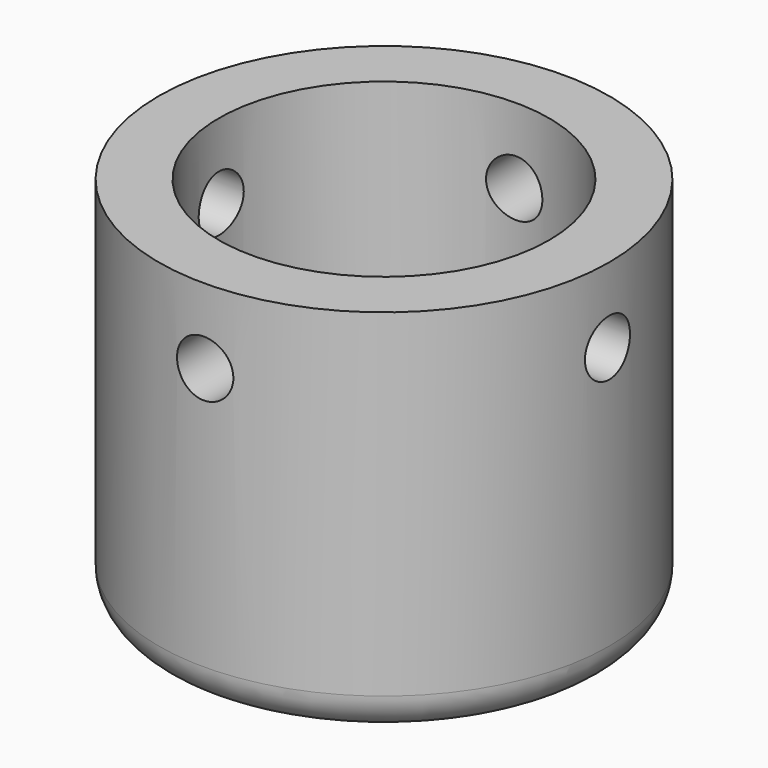
from build123d import *

# Parameters (mm, degrees)
F0_R          = 30.48
F1_DEPTH      = 50.8
F2_R          = 3.81
F3_DEPTH      = 50.801
F4_R          = 3.81
F5_DEPTH      = 30.481
F5_DEPTH_BACK = 30.481
F6_R          = 3.81
F7_DEPTH      = 30.4810001
F7_DEPTH_BACK = 30.4810001
F8_R          = 3.302
F9_DEPTH      = 50.8010001
F10_R         = 22.352
F11_DEPTH     = 47.625
F12_R         = 5.08


with BuildPart() as f1:
    # F0 (on Top) → F1 (new body)
    with BuildSketch(Plane.XY):
        Circle(F0_R)
    extrude(amount=-F1_DEPTH)

    # F2 (on face) → F3 (cut, through all)
    with BuildSketch(Plane(origin=(0, 0, -50.8), x_dir=(1, 0, 0), z_dir=(0, 0, -1))):
        Circle(F2_R)
    extrude(amount=-F3_DEPTH, mode=Mode.SUBTRACT)

    # F4 (on Right) → F5 (cut, two sides)
    with BuildSketch(Plane.YZ) as f5_sk:
        with Locations((0, -10.16)):
            Circle(F4_R)
    extrude(amount=-F5_DEPTH, mode=Mode.SUBTRACT)
    extrude(f5_sk.sketch, amount=F5_DEPTH_BACK, mode=Mode.SUBTRACT)

    # F6 (on Front) → F7 (cut, two sides)
    with BuildSketch(Plane.XZ) as f7_sk:
        with Locations((0, -10.16)):
            Circle(F6_R)
    extrude(amount=-F7_DEPTH, mode=Mode.SUBTRACT)
    extrude(f7_sk.sketch, amount=F7_DEPTH_BACK, mode=Mode.SUBTRACT)

    # F8 (on face) → F9 (cut, through all)
    with BuildSketch(Plane(origin=(0, 0, -50.8), x_dir=(1, 0, 0), z_dir=(0, 0, -1))):
        with Locations((10.922, 0)):
            Circle(F8_R)
        with Locations((-10.8710342307, 0)):
            Circle(F8_R)
    extrude(amount=-F9_DEPTH, mode=Mode.SUBTRACT)

    # F10 (on face) → F11 (cut)
    with BuildSketch(Plane.XY):
        Circle(F10_R)
    extrude(amount=-F11_DEPTH, mode=Mode.SUBTRACT)

    # F12
    f12_edges = [f1.edges().sort_by_distance(p)[0] for p in [
        (-30.48, 0, -50.8),
    ]]
    fillet(f12_edges, radius=F12_R)


solid = f1.part
